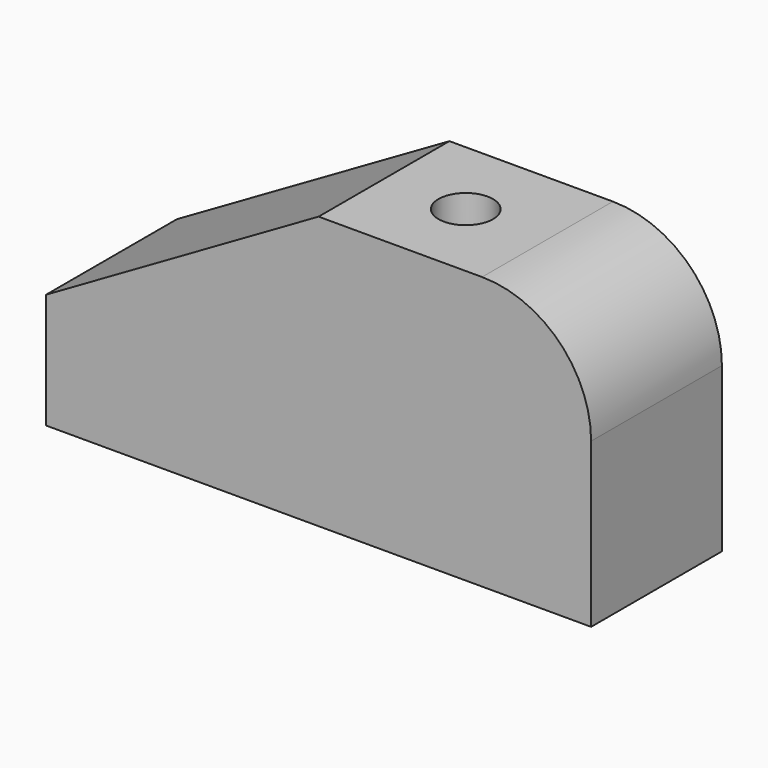
from build123d import *

# Parameters (mm, degrees)
CYLINDER_R             = 5
CYLINDER_DEPTH         = 50
BOX001_W               = 30
BOX001_H               = 30
BOX001_DEPTH           = 60
BOX001_PLACEMENT_ANGLE = 240
BOX_W                  = 100
BOX_H                  = 30
BOX_DEPTH              = 50
FILLET_R               = 20


with BuildPart() as cylinder:
    # Cylinder → Cylinder (new body)
    with BuildSketch(Plane(origin=(65, 15, 0), x_dir=(1, 0, 0), z_dir=(0, 0, 1))):
        Circle(CYLINDER_R)
    extrude(amount=CYLINDER_DEPTH)


with BuildPart() as cube001:
    # Box001 → Box001 (new body)
    with BuildSketch(Plane.XY):
        with Locations((15, 15)):
            Rectangle(BOX001_W, BOX001_H)
    extrude(amount=BOX001_DEPTH)


with BuildPart() as cube001_1:
    # Box001 placement: moved
    add(cube001.part.moved(Location((50, 0, 50))).rotate(Axis((50, 0, 50), (0, 1, 0)), BOX001_PLACEMENT_ANGLE))


with BuildPart() as cut001:
    # Box → Box (new body)
    with BuildSketch(Plane.XY):
        with Locations((50, 15)):
            Rectangle(BOX_W, BOX_H)
    extrude(amount=BOX_DEPTH)

    # Fillet
    fillet_edges = [cut001.edges().sort_by_distance(p)[0] for p in [
        (100, 15, 50),
    ]]
    fillet(fillet_edges, radius=FILLET_R)

    # Cut: cut Cube001
    add(cube001_1.part, mode=Mode.SUBTRACT)

    # Cut001: cut Cylinder
    add(cylinder.part, mode=Mode.SUBTRACT)


solid = cut001.part
